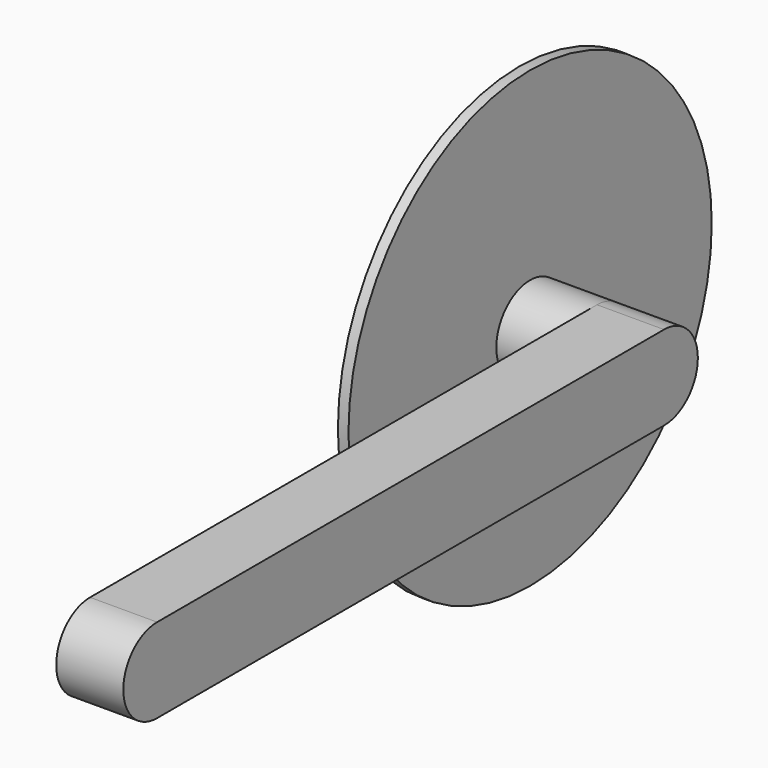
from build123d import *

# Parameters (mm, degrees)
F0_R     = 64.5
F1_DEPTH = 3
F2_R     = 12
F3_DEPTH = 19
F5_DEPTH = 19.05


with BuildPart() as f1:
    # F0 (on Right) → F1 (new body)
    with BuildSketch(Plane.YZ):
        Circle(F0_R)
    extrude(amount=F1_DEPTH)

    # F2 (on face) → F3 (join)
    with BuildSketch(Plane.YZ.offset(3)):
        Circle(F2_R)
    extrude(amount=F3_DEPTH)

    # F4 (on face) → F5 (join)
    with BuildSketch(Plane.YZ.offset(22)):
        with BuildLine():
            ThreePointArc((0, -12), (-12, 0), (0, 12))
            Line((0, 12), (-180, 12))
            ThreePointArc((-180, 12), (-192, 0), (-180, -12))
            Line((-180, -12), (0, -12))
        make_face()
        with BuildLine():
            ThreePointArc((12, 0), (8.485281, 8.485281), (0, 12))
            ThreePointArc((0, 12), (-12, 0), (0, -12))
            ThreePointArc((0, -12), (8.485281, -8.485281), (12, 0))
        make_face()
    extrude(amount=F5_DEPTH)


solid = f1.part
